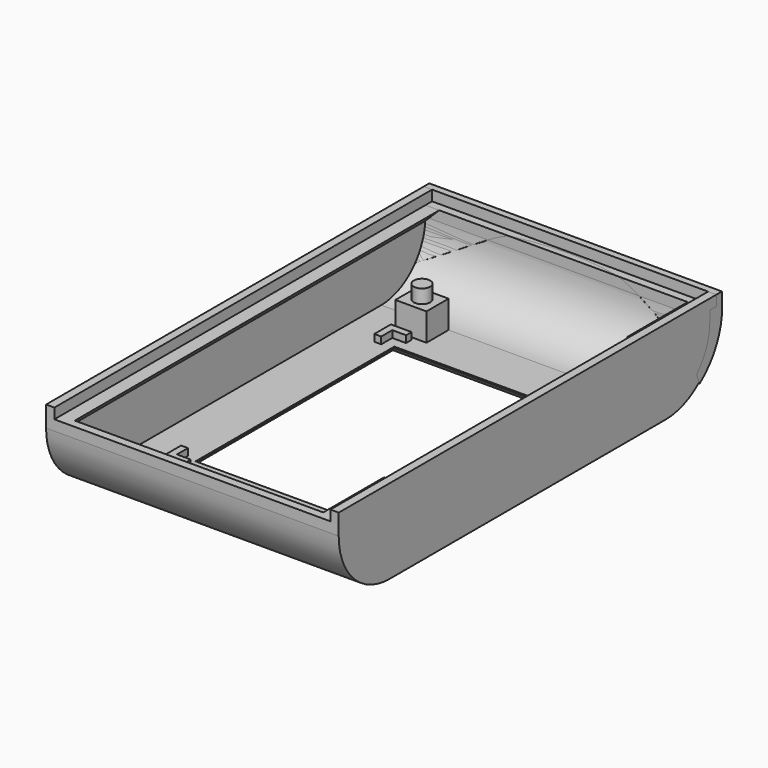
from build123d import *

# Parameters (mm, degrees)
PAD_DEPTH          = 18
PAD_DEPTH_BACK     = 22
THICKNESS_T        = 1.2
SKETCH002_W        = 29
SKETCH002_H        = 36
POCKET_DEPTH       = 12.201
CHAMFER_SIZE       = 1
PAD002_DEPTH       = 1
POLARPATTERN_COUNT = 2
PAD007_DEPTH       = 66
PAD008_DEPTH       = 66
SKETCH010_W        = 2
SKETCH010_H        = 44
POCKET001_DEPTH    = 2
SKETCH011_W        = 40
SKETCH011_H        = 68.4
POCKET002_DEPTH    = 1.5
PAD001_DEPTH       = 19.2
PAD001_DEPTH_BACK  = 23.2
SKETCH012_W        = 1.2
SKETCH012_H        = 42.4
POCKET003_DEPTH    = 1.5
SKETCH004_W        = 4
SKETCH004_H        = 4
PAD004_DEPTH       = 2.25
SKETCH006_R        = 1.2
PAD005_DEPTH       = 2
PAD003_DEPTH       = 2.25
PAD003_DEPTH_BACK  = 2.25
SKETCH007_R        = 1.2
PAD006_DEPTH       = 2


with BuildPart() as cuerpoprincipal:
    # Sketch → Pad (new body, two sides)
    with BuildSketch(Plane.YZ) as pad_sk:
        with BuildLine():
            Line((-25, 0), (25, 0))
            ThreePointArc((25, 0), (30.6568542495, 2.3431457505), (33, 8))
            Line((33, 11), (33, 8))
            Line((-33, 11), (33, 11))
            Line((-33, 11), (-33, 8))
            ThreePointArc((-33, 8), (-30.6568542495, 2.3431457505), (-25, 0))
        make_face()
    extrude(amount=PAD_DEPTH)
    extrude(pad_sk.sketch, amount=-PAD_DEPTH_BACK)

    # Thickness
    thickness_openings = [cuerpoprincipal.faces().sort_by_distance(p)[0] for p in [
        (-2, 0, 11),
    ]]
    offset(amount=THICKNESS_T, openings=thickness_openings, kind=Kind.INTERSECTION)

    # Sketch002 (on Face11 of Thickness) → Pocket (cut, through all)
    with BuildSketch(Plane(origin=(0, 0, -1.2), x_dir=(1, 0, 0), z_dir=(0, 0, -1))):
        Rectangle(SKETCH002_W, SKETCH002_H)
    extrude(amount=-POCKET_DEPTH, mode=Mode.SUBTRACT)

    # Chamfer
    chamfer_edges = [cuerpoprincipal.edges().sort_by_distance(p)[0] for p in [
        (0, 18, -1.2),
        (14.5, 0, -1.2),
        (0, -18, -1.2),
        (-14.5, 0, -1.2),
    ]]
    chamfer(chamfer_edges, length=CHAMFER_SIZE)

    # Sketch003 (on Face17 of Chamfer) → Pad002 (join)
    with BuildSketch(Plane.XY):
        Polygon((-17, 20.5), (-14, 20.5), (-14, 19.5), (-16, 19.5), (-16, 17.5), (-17, 17.5), align=None)
    pad002 = extrude(amount=PAD002_DEPTH)

    # PolarPattern: Pad002 ×2 about axis
    polarpattern_axis = Axis((0, 0, 0), (0, 0, 1))
    for i in range(1, POLARPATTERN_COUNT):
        add(pad002.rotate(polarpattern_axis, i * 360 / POLARPATTERN_COUNT))

    # Mirrored: Pad002 across XZ
    add(pad002.mirror(Plane.XZ))

    # Mirrored001: Pad002 across YZ
    add(pad002.mirror(Plane.YZ))

    # Sketch008 (on Face20 of Mirrored001) → Pad007 (join)
    with BuildSketch(Plane.XZ.offset(-33)):
        Polygon((-22, 7.5), (-20, 9.5), (-22, 9.5), align=None)
    extrude(amount=PAD007_DEPTH)

    # Sketch009 (on Face20 of Pad007) → Pad008 (join)
    with BuildSketch(Plane.XZ.offset(-33)):
        Polygon((16, 9.5), (18, 9.5), (18, 7.5), align=None)
    extrude(amount=PAD008_DEPTH)

    # Sketch010 (on Face53 of Pad008) → Pocket001 (cut)
    with BuildSketch(Plane.XY.offset(9.5)):
        with Locations((17, 0)):
            Rectangle(SKETCH010_W, SKETCH010_H)
    extrude(amount=-POCKET001_DEPTH, mode=Mode.SUBTRACT)

    # Sketch011 (on Face14 of Pocket001) → Pocket002 (cut)
    with BuildSketch(Plane.XY.offset(11)):
        with Locations((-2, 0)):
            Rectangle(SKETCH011_W, SKETCH011_H)
    extrude(amount=-POCKET002_DEPTH, mode=Mode.SUBTRACT)


with BuildPart() as esfera001:
    # Sphere001 → Sphere001 (revolve)
    with BuildSketch(Plane(origin=(-2, 1, -10), x_dir=(1, 0, 0), z_dir=(0, -1, 0))):
        with BuildLine():
            ThreePointArc((0, -40), (40, 0), (0, 40))
            Line((0, 40), (0, -40))
        make_face()
    revolve(axis=Axis((-2, 1, -10), (0, 0, 1)))


with BuildPart() as ala:
    # Sketch001 → Pad001 (new body, two sides)
    with BuildSketch(Plane.YZ) as pad001_sk:
        with BuildLine():
            ThreePointArc((-33, 8), (-30.6568542495, 2.3431457505), (-25, 0))
            Line((-25, 0), (-25, -1.2))
            ThreePointArc((-35.2, 8), (-31.8598089762, 1.4489074394), (-25, -1.2))
            Line((-35.2, 8), (-35.2, 11))
            Line((-35.2, 11), (-33, 11))
            Line((-33, 11), (-33, 8))
        make_face()
    extrude(amount=PAD001_DEPTH)
    extrude(pad001_sk.sketch, amount=-PAD001_DEPTH_BACK)

    # Sketch012 (on Face2 of Pad001) → Pocket003 (cut)
    with BuildSketch(Plane(origin=(0, 0, 11), x_dir=(0, -1, 0), z_dir=(0, 0, 1))):
        with Locations((33.6, -2)):
            Rectangle(SKETCH012_W, SKETCH012_H)
    extrude(amount=-POCKET003_DEPTH, mode=Mode.SUBTRACT)

    # Cut: cut Esfera001
    add(esfera001.part, mode=Mode.SUBTRACT)


with BuildPart() as part_mirroring:
    # Part__Mirroring: instance of ala
    add(ala.part.mirror(Plane(origin=(0, 0, 0), x_dir=(1, 0, 0), z_dir=(0, 1, 0))))


with BuildPart() as obj1:
    # Sketch004 → Pad004 (new body, symmetric)
    with BuildSketch(Plane.YZ.offset(14.5)):
        with Locations((23, 2)):
            Rectangle(SKETCH004_W, SKETCH004_H)
    extrude(amount=PAD004_DEPTH, both=True)

    # Sketch006 (on Face1 of Pad004) → Pad005 (join)
    with BuildSketch(Plane(origin=(0, 0, 4), x_dir=(0, -1, 0), z_dir=(0, 0, 1))):
        with Locations((-23, 14.5)):
            Circle(SKETCH006_R)
    extrude(amount=PAD005_DEPTH)


with BuildPart() as part_mirroring001:
    # Part__Mirroring001: instance of obj1
    add(obj1.part.mirror(Plane(origin=(0, 0, 0), x_dir=(0, -1, 0), z_dir=(1, 0, 0))))


with BuildPart() as obj2:
    # Sketch005 → Pad003 (new body, two sides)
    with BuildSketch(Plane.YZ.offset(14.5)) as pad003_sk:
        with BuildLine():
            Line((-31.25, 4), (-26.7500000001, 4))
            Line((-26.7500000001, 4), (-26.7500000001, 0.193752502))
            ThreePointArc((-31.25, 3.0062539111), (-29.2399930477, 1.2160145228), (-26.7500000001, 0.193752502))
            Line((-31.25, 4), (-31.25, 3.0062539111))
        make_face()
    extrude(amount=PAD003_DEPTH)
    extrude(pad003_sk.sketch, amount=-PAD003_DEPTH_BACK)

    # Sketch007 (on Face1 of Pad003) → Pad006 (join)
    with BuildSketch(Plane(origin=(0, 0, 4), x_dir=(0, -1, 0), z_dir=(0, 0, 1))):
        with Locations((29, 14.5)):
            Circle(SKETCH007_R)
    extrude(amount=PAD006_DEPTH)


with BuildPart() as part_mirroring002:
    # Part__Mirroring002: instance of obj2
    add(obj2.part.mirror(Plane(origin=(0, 0, 0), x_dir=(0, -1, 0), z_dir=(1, 0, 0))))


solid = Compound([cuerpoprincipal.part, part_mirroring.part, part_mirroring001.part, part_mirroring002.part])
